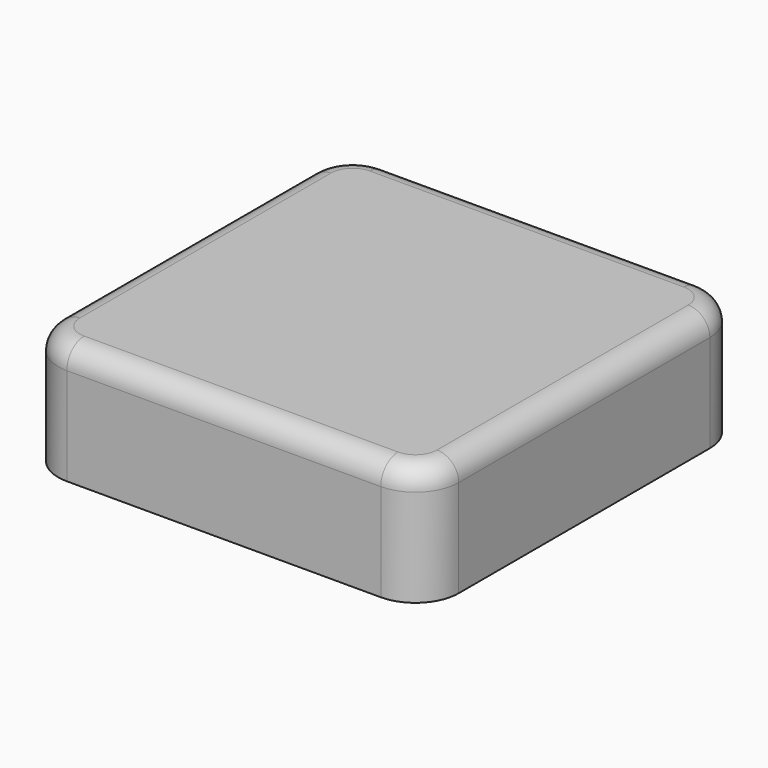
from build123d import *

# Parameters (mm, degrees)
SKETCH_W        = 18.5
SKETCH_H        = 18.5
PAD_DEPTH       = 5.5
SKETCH001_W     = 15.5
SKETCH001_H     = 15.5
POCKET_DEPTH    = 4
SKETCH002_R     = 2.7059
PAD001_DEPTH    = 4
POCKET001_DEPTH = 4
FILLET001_R     = 1.5
FILLET_R        = 2
PAD002_DEPTH    = 1.35295
FILLET002_R     = 1


with BuildPart() as part:
    # Sketch → Pad (new body)
    with BuildSketch(Plane.XY):
        Rectangle(SKETCH_W, SKETCH_H)
    extrude(amount=PAD_DEPTH)

    # Sketch001 → Pocket (cut)
    with BuildSketch(Plane(origin=(0, 0, 0), x_dir=(1, 0, 0), z_dir=(0, 0, -1))):
        Rectangle(SKETCH001_W, SKETCH001_H)
    extrude(amount=-POCKET_DEPTH, mode=Mode.SUBTRACT)

    # Sketch002 (on Face11 of Pocket) → Pad001 (join)
    with BuildSketch(Plane(origin=(0, 0, 4), x_dir=(1, 0, 0), z_dir=(0, 0, -1))):
        Circle(SKETCH002_R)
    extrude(amount=PAD001_DEPTH)

    # Sketch003 (on Face13 of Pad001) → Pocket001 (cut)
    with BuildSketch(Plane(origin=(0, 0, 0), x_dir=(1, 0, 0), z_dir=(0, 0, -1))):
        Polygon((-0.6219, 2.0443), (0.6219, 2.0443), (0.6219, 0.6219), (2.0443, 0.6219), (2.0443, -0.6219), (0.6219, -0.6219), (0.6219, -2.0443), (-0.6219, -2.0443), (-0.6219, -0.6219), (-2.0443, -0.6219), (-2.0443, 0.6219), (-0.6219, 0.6219), align=None)
    extrude(amount=-POCKET001_DEPTH, mode=Mode.SUBTRACT)

    # Fillet001
    fillet001_edges = [part.edges().sort_by_distance(p)[0] for p in [
        (-7.75, -7.75, 2),
        (7.75, -7.75, 2),
        (7.75, 7.75, 2),
        (-7.75, 7.75, 2),
    ]]
    fillet(fillet001_edges, radius=FILLET001_R)

    # Fillet
    fillet_edges = [part.edges().sort_by_distance(p)[0] for p in [
        (9.25, -9.25, 2.75),
        (-9.25, -9.25, 2.75),
        (-9.25, 9.25, 2.75),
        (9.25, 9.25, 2.75),
    ]]
    fillet(fillet_edges, radius=FILLET_R)

    # Sketch004 (on Face19 of Fillet) → Pad002 (join)
    with BuildSketch(Plane(origin=(0, 0, 4), x_dir=(1, 0, 0), z_dir=(0, 0, -1))):
        Polygon((-0.676475, 7.75), (0.676475, 7.75), (0.676475, 0.676475), (7.75, 0.676475), (7.75, -0.676475), (0.676475, -0.676475), (0.676475, -7.75), (-0.676475, -7.75), (-0.676475, -0.676475), (-7.75, -0.676475), (-7.75, 0.676475), (-0.676475, 0.676475), align=None)
    extrude(amount=PAD002_DEPTH)

    # Fillet002
    fillet002_edges = [part.edges().sort_by_distance(p)[0] for p in [
        (0, 9.25, 5.5),
        (-8.664214, 8.664214, 5.5),
        (8.664214, 8.664214, 5.5),
        (-9.25, 0, 5.5),
        (9.25, 0, 5.5),
        (-8.664214, -8.664214, 5.5),
        (8.664214, -8.664214, 5.5),
        (0, -9.25, 5.5),
    ]]
    fillet(fillet002_edges, radius=FILLET002_R)


solid = part.part
